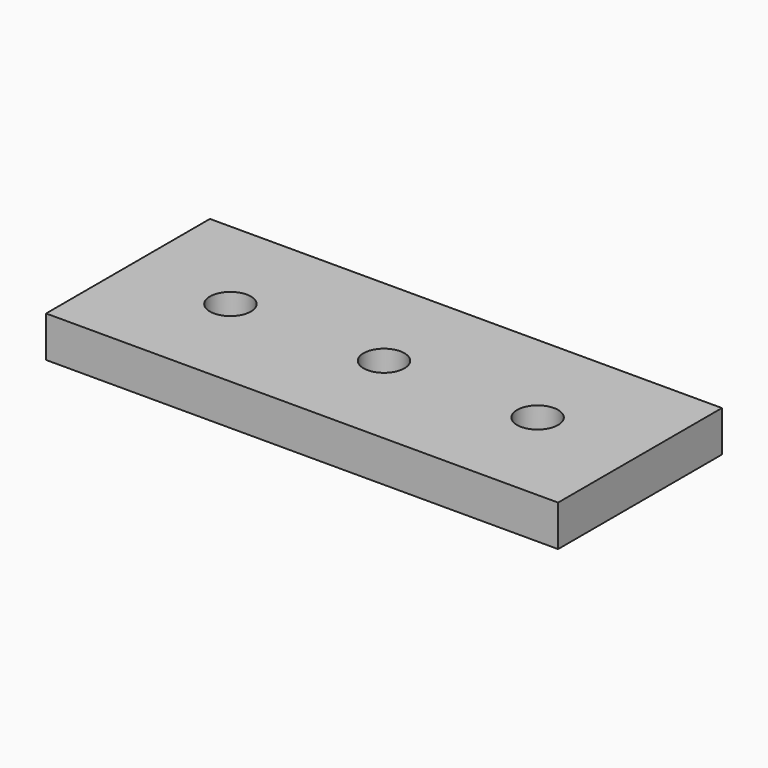
from build123d import *

# Parameters (mm, degrees)
F0_W     = 25
F0_H     = 10
F0_R     = 1
F1_DEPTH = 2


with BuildPart() as f1:
    # F0 (on Top) → F1 (new body)
    with BuildSketch(Plane.XY):
        with Locations((12.5, -5)):
            Rectangle(F0_W, F0_H)
        with Locations((5, -5)):
            Circle(F0_R, mode=Mode.SUBTRACT)
        with Locations((12.5, -5)):
            Circle(F0_R, mode=Mode.SUBTRACT)
        with Locations((20, -5)):
            Circle(F0_R, mode=Mode.SUBTRACT)
    extrude(amount=F1_DEPTH)


solid = f1.part
